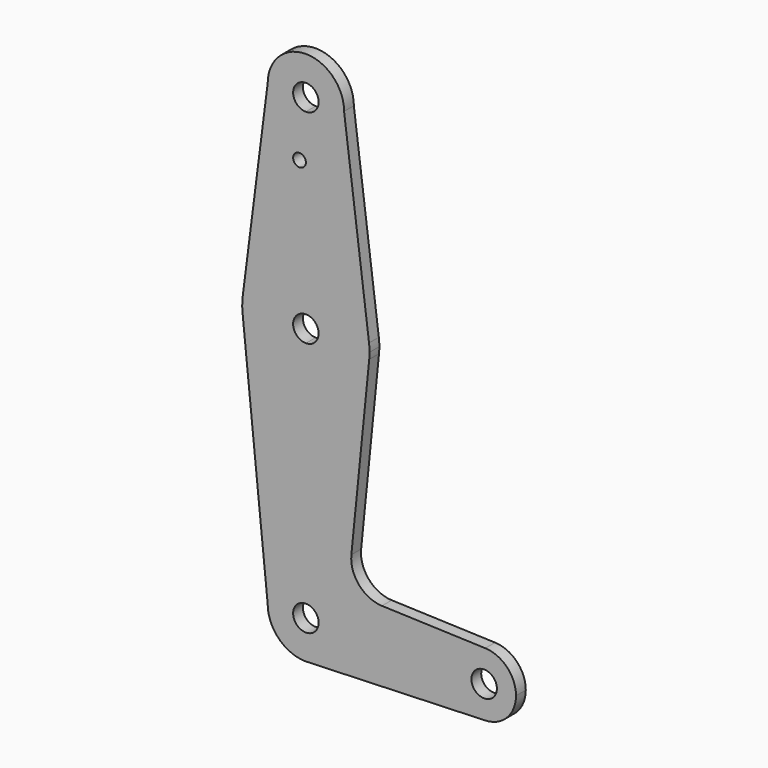
from build123d import *

# Parameters (mm, degrees)
F0_R     = 1.5875
F1_DEPTH = 3.048


with BuildPart() as f1:
    # F0 (on Front) → F1 (new body)
    with BuildSketch(Plane.XZ):
        with BuildLine():
            Line((-9.525, 114.3), (-15.7474569047, 65.5082893304))
            ThreePointArc((-15.7474569047, 65.5082893304), (-10.4912828548, 75.4142187767), (0, 79.375))
            Line((0, 79.375), (0, 99.9906848222))
            Line((0, 99.9906848222), (0, 104.775))
            ThreePointArc((0, 104.775), (-6.7351920908, 107.5648079092), (-9.525, 114.3))
        make_face()
        with Locations((-1.5875, 99.9906848222)):
            Circle(F0_R, mode=Mode.SUBTRACT)
        with BuildLine():
            Line((0, 99.9906848222), (0, 79.375))
            ThreePointArc((0, 79.375), (10.4912828548, 75.4142187767), (15.7474569047, 65.5082893304))
            Line((15.7474569047, 65.5082893304), (9.525, 114.3))
            ThreePointArc((9.525, 114.3), (6.7351920908, 107.5648079092), (0, 104.775))
            Line((0, 104.775), (0, 99.9906848222))
        make_face()
        with BuildLine():
            ThreePointArc((9.525, 114.3), (0, 123.825), (-9.525, 114.3))
            ThreePointArc((-9.525, 114.3), (-6.7351920908, 107.5648079092), (0, 104.775))
            ThreePointArc((0, 104.775), (6.7351920908, 107.5648079092), (9.525, 114.3))
        make_face()
        with BuildLine():
            ThreePointArc((3.175, 114.3), (2.2450640303, 112.0549359697), (0, 111.125))
            ThreePointArc((0, 111.125), (-2.2450640303, 116.5450640303), (3.175, 114.3))
        make_face(mode=Mode.SUBTRACT)
        with BuildLine():
            ThreePointArc((-15.7942028036, 61.9003804205), (-10.644756084, 51.722700101), (0, 47.625))
            Line((0, 47.625), (0, 60.325))
            ThreePointArc((0, 60.325), (-3.175, 63.5), (0, 66.675))
            Line((0, 66.675), (0, 79.375))
            ThreePointArc((0, 79.375), (-10.4912828548, 75.4142187767), (-15.7474569047, 65.5082893304))
            ThreePointArc((-15.7474569047, 65.5082893304), (-15.873667691, 63.7056672947), (-15.7942028036, 61.9003804205))
        make_face()
        with BuildLine():
            Line((0, 60.325), (0, 47.625))
            ThreePointArc((0, 47.625), (10.6492737428, 51.7267849017), (15.7954255641, 61.9125))
            ThreePointArc((15.7954255641, 61.9125), (15.8550939106, 62.7052534459), (15.875, 63.5))
            ThreePointArc((15.875, 63.5), (15.8430821396, 64.5061676396), (15.7474569047, 65.5082893304))
            ThreePointArc((15.7474569047, 65.5082893304), (10.4912828548, 75.4142187767), (0, 79.375))
            Line((0, 79.375), (0, 66.675))
            ThreePointArc((0, 66.675), (2.2450640303, 65.7450640303), (3.175, 63.5))
            ThreePointArc((3.175, 63.5), (2.2450640303, 61.2549359697), (0, 60.325))
        make_face()
        with BuildLine():
            ThreePointArc((-9.525, 0), (-6.7351920908, 6.7351920908), (0, 9.525))
            Line((0, 9.525), (0, 47.625))
            ThreePointArc((0, 47.625), (-10.644756084, 51.722700101), (-15.7942028036, 61.9003804205))
            Line((-15.7942028036, 61.9003804205), (-9.525, 0))
        make_face()
        with BuildLine():
            Line((0, 47.625), (0, 9.525))
            ThreePointArc((0, 9.525), (6.7351920908, 6.7351920908), (9.525, 0))
            Line((9.525, 0), (36.5125, 0))
            ThreePointArc((36.5125, 0), (38.9380895153, 5.7116327839), (44.7324052746, 7.9324746146))
            Line((44.7324052746, 7.9324746146), (18.968327868, 8.8497055806))
            ThreePointArc((18.968327868, 8.8497055806), (13.2612039825, 11.5674628959), (11.3408358685, 17.5898921545))
            Line((11.3408358685, 17.5898921545), (15.7954255641, 61.9125))
            ThreePointArc((15.7954255641, 61.9125), (10.6492737428, 51.7267849017), (0, 47.625))
        make_face()
        with BuildLine():
            Line((36.5125, 0), (9.525, 0))
            ThreePointArc((9.525, 0), (6.9705567315, -6.4912990883), (0.6773435479, -9.500885786))
            Line((0.6773435479, -9.500885786), (44.7324052746, -7.9324746146))
            ThreePointArc((44.7324052746, -7.9324746146), (38.9380895153, -5.7116327839), (36.5125, 0))
        make_face()
        with BuildLine():
            ThreePointArc((44.7324052746, 7.9324746146), (38.9380895153, 5.7116327839), (36.5125, 0))
            ThreePointArc((36.5125, 0), (38.9380895153, -5.7116327839), (44.7324052746, -7.9324746146))
            ThreePointArc((44.7324052746, -7.9324746146), (50.1616327839, -5.5119104847), (52.3875, 0))
            ThreePointArc((52.3875, 0), (50.1616327839, 5.5119104847), (44.7324052746, 7.9324746146))
        make_face()
        with BuildLine():
            ThreePointArc((47.625, 0), (44.45, -3.175), (41.275, 0))
            ThreePointArc((41.275, 0), (44.45, 3.175), (47.625, 0))
        make_face(mode=Mode.SUBTRACT)
        with BuildLine():
            ThreePointArc((3.175, 0), (-2.2450640303, -2.2450640303), (0, 3.175))
            Line((0, 3.175), (0, 9.525))
            ThreePointArc((0, 9.525), (-6.7351920908, 6.7351920908), (-9.525, 0))
            ThreePointArc((-9.525, 0), (-6.7351920908, -6.7351920908), (0, -9.525))
            Line((0, -9.525), (0.6773435479, -9.500885786))
            ThreePointArc((0.6773435479, -9.500885786), (6.9705567315, -6.4912990883), (9.525, 0))
            Line((9.525, 0), (3.175, 0))
        make_face()
        with BuildLine():
            Line((0, 9.525), (0, 3.175))
            ThreePointArc((0, 3.175), (2.2450640303, 2.2450640303), (3.175, 0))
            Line((3.175, 0), (9.525, 0))
            ThreePointArc((9.525, 0), (6.7351920908, 6.7351920908), (0, 9.525))
        make_face()
    extrude(amount=F1_DEPTH)


solid = f1.part
